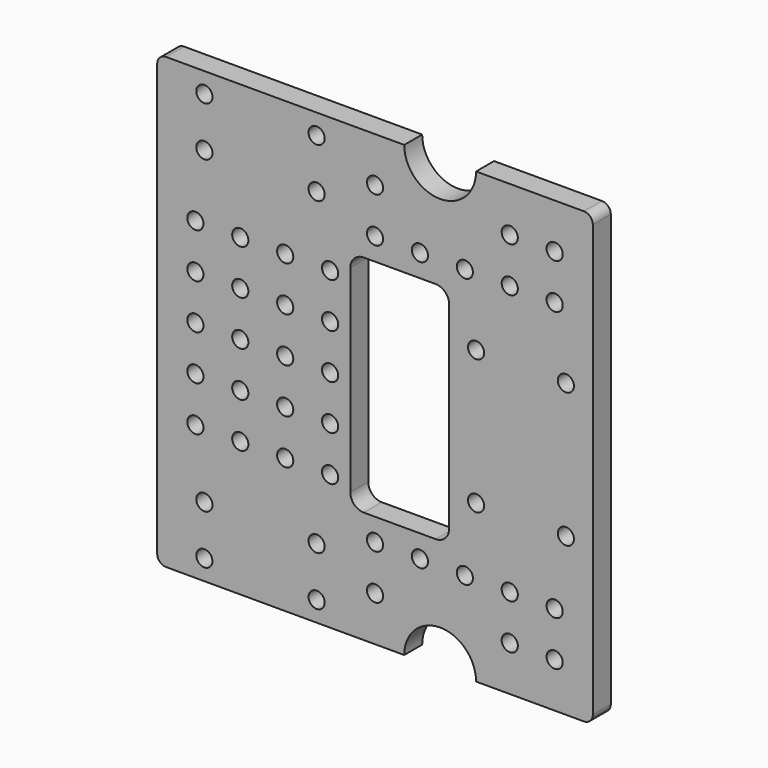
from build123d import *

# Parameters (mm, degrees)
CYLINDER011021_R         = 1.8
CYLINDER011021_DEPTH     = 100
ARRAY016_X_COUNT         = 2
ARRAY016_X_PITCH         = 25
ARRAY016_Y_COUNT         = 2
ARRAY016_Y_PITCH         = 11
ARRAY016_PLACEMENT_ANGLE = 90
ARRAY015_Z_COUNT         = 2
ARRAY015_Z_PITCH         = 80
CYLINDER011026_R         = 1.8
CYLINDER011026_DEPTH     = 10
ARRAY014_X_COUNT         = 2
ARRAY014_X_PITCH         = 30
ARRAY014_Y_COUNT         = 2
ARRAY014_Y_PITCH         = 20
ARRAY014_PITCH_ANGLE     = 90
ARRAY014_PLACEMENT_ANGLE = -90
BOX008_W                 = 22
BOX008_H                 = 10
BOX008_DEPTH             = 50
FILLET006_R              = 3
BOX009_W                 = 16
BOX009_H                 = 200
BOX009_DEPTH             = 50
CYLINDER011028_R         = 8
CYLINDER011028_DEPTH     = 200
SKETCH005_W              = 42.117567
SKETCH005_H              = 23.738708
SKETCH005_W_2            = 40.471139
SKETCH005_H_2            = 27.047569
SKETCH005_W_3            = 29.381024
SKETCH005_H_3            = 46.19655
SKETCH005_W_4            = 20.234924
SKETCH005_H_4            = 18.380661
SKETCH005_W_5            = 22.001269
SKETCH005_H_5            = 17.778789
EXTRUDE003_DEPTH         = 50
CYLINDER011025_R         = 1.8
CYLINDER011025_DEPTH     = 100
ARRAY013_X_COUNT         = 9
ARRAY013_X_PITCH         = 10
ARRAY013_Z_COUNT         = 9
ARRAY013_Z_PITCH         = 10
BOX007_W                 = 97
BOX007_H                 = 5
BOX007_DEPTH             = 100
FILLET005_R              = 2


with BuildPart() as bolt_hole_array_pair002:
    # Cylinder011021 → Cylinder011021 (new body)
    with BuildSketch(Plane.XY.offset(-50)):
        Circle(CYLINDER011021_R)
    extrude(amount=CYLINDER011021_DEPTH)

    # Array016 X: bolt hole array pair002 ×2


with BuildPart() as bolt_hole_array_pair002_1:
    add(bolt_hole_array_pair002.part)
    with Locations(*[(i * ARRAY016_X_PITCH, 0, 0) for i in range(1, ARRAY016_X_COUNT)]):
        add(bolt_hole_array_pair002.part)

    # Array016 Y: bolt hole array pair002 ×2


with BuildPart() as bolt_hole_array_pair002_2:
    add(bolt_hole_array_pair002_1.part)
    with Locations(*[(0, i * ARRAY016_Y_PITCH, 0) for i in range(1, ARRAY016_Y_COUNT)]):
        add(bolt_hole_array_pair002_1.part)


with BuildPart() as bolt_hole_array_pair002_3:
    # Array016 placement: moved
    add(bolt_hole_array_pair002_2.part.moved(Location((-12.5, 0, 4.5))).rotate(Axis((-12.5, 0, 4.5), (1, 0, 0)), ARRAY016_PLACEMENT_ANGLE))

    # Array015 Z: bolt hole array pair002 ×2


with BuildPart() as bolt_hole_array_pair002_4:
    add(bolt_hole_array_pair002_3.part)
    with Locations(*[(0, 0, i * ARRAY015_Z_PITCH) for i in range(1, ARRAY015_Z_COUNT)]):
        add(bolt_hole_array_pair002_3.part)


with BuildPart() as stepper_mount_hole_array002:
    # Cylinder011026 → Cylinder011026 (new body)
    with BuildSketch(Plane.XY):
        Circle(CYLINDER011026_R)
    extrude(amount=CYLINDER011026_DEPTH)

    # Array014 X: stepper mount hole array002 ×2


with BuildPart() as stepper_mount_hole_array002_1:
    add(stepper_mount_hole_array002.part)
    with Locations(*[(i * ARRAY014_X_PITCH, 0, 0) for i in range(1, ARRAY014_X_COUNT)]):
        add(stepper_mount_hole_array002.part)

    # Array014 Y: stepper mount hole array002 ×2


with BuildPart() as stepper_mount_hole_array002_2:
    add(stepper_mount_hole_array002_1.part)
    with Locations(*[(0, i * ARRAY014_Y_PITCH, 0) for i in range(1, ARRAY014_Y_COUNT)]):
        add(stepper_mount_hole_array002_1.part)


with BuildPart() as stepper_mount_hole_array002_3:
    # Array014 pitch: moved
    add(stepper_mount_hole_array002_2.part.rotate(Axis((0, 0, 0), (0, 1, 0)), ARRAY014_PITCH_ANGLE))


with BuildPart() as stepper_mount_hole_array002_4:
    # Array014 placement: moved
    add(stepper_mount_hole_array002_3.part.moved(Location((48, -31, 65))).rotate(Axis((48, -31, 65), (0, 0, 1)), ARRAY014_PLACEMENT_ANGLE))


with BuildPart() as belt_hole_fillet002:
    # Box008 → Box008 (new body)
    with BuildSketch(Plane(origin=(20, -40, 25), x_dir=(1, 0, 0), z_dir=(0, 0, 1))):
        with Locations((11, 5)):
            Rectangle(BOX008_W, BOX008_H)
    extrude(amount=BOX008_DEPTH)

    # Fillet006
    fillet006_edges = [belt_hole_fillet002.edges().sort_by_distance(p)[0] for p in [
        (20, -35, 75),
        (20, -35, 25),
        (42, -35, 75),
        (42, -35, 25),
    ]]
    fillet(fillet006_edges, radius=FILLET006_R)


with BuildPart() as shaft_extension_cube002:
    # Box009 → Box009 (new body)
    with BuildSketch(Plane(origin=(-8, -200, -50), x_dir=(1, 0, 0), z_dir=(0, 0, 1))):
        with Locations((8, 100)):
            Rectangle(BOX009_W, BOX009_H)
    extrude(amount=BOX009_DEPTH)


with BuildPart() as shaft_16mm_hole002:
    # Cylinder011028 → Cylinder011028 (new body)
    with BuildSketch(Plane.XZ):
        Circle(CYLINDER011028_R)
    extrude(amount=CYLINDER011028_DEPTH)

    # Fusion010: union shaft extension cube002
    add(shaft_extension_cube002.part)


with BuildPart() as shaft_16mm_hole002_1:
    # Fusion010 placement: moved
    add(shaft_16mm_hole002.part.moved(Location((40, -19, 0))))


with BuildPart() as part_mirroring004:
    # Part__Mirroring004: instance of shaft 16mm hole002
    add(shaft_16mm_hole002_1.part.mirror(Plane(origin=(0, 0, 50), x_dir=(0, 1, 0), z_dir=(0, 0, 1))))


with BuildPart() as general_holes_extrude002:
    # Sketch005 → Extrude003 (new body, symmetric)
    with BuildSketch(Plane.XZ):
        with Locations((-1.795196, 11.674214)):
            Rectangle(SKETCH005_W, SKETCH005_H)
        with Locations((-0.985158, 89.151065)):
            Rectangle(SKETCH005_W_2, SKETCH005_H_2)
        with Locations((57.017252, 49.302802)):
            Rectangle(SKETCH005_W_3, SKETCH005_H_3)
        with Locations((39.542156, 93.364433)):
            Rectangle(SKETCH005_W_4, SKETCH005_H_4)
        with Locations((39.547934, 5.882593)):
            Rectangle(SKETCH005_W_5, SKETCH005_H_5)
    extrude(amount=EXTRUDE003_DEPTH, both=True)


with BuildPart() as hole_fusion002:
    # Cylinder011025 → Cylinder011025 (new body)
    with BuildSketch(Plane.XZ.offset(-50)):
        Circle(CYLINDER011025_R)
    extrude(amount=CYLINDER011025_DEPTH)

    # Array013 X: hole fusion002 ×9


with BuildPart() as hole_fusion002_1:
    add(hole_fusion002.part)
    with Locations(*[(i * ARRAY013_X_PITCH, 0, 0) for i in range(1, ARRAY013_X_COUNT)]):
        add(hole_fusion002.part)

    # Array013 Z: hole fusion002 ×9


with BuildPart() as hole_fusion002_2:
    add(hole_fusion002_1.part)
    with Locations(*[(0, 0, i * ARRAY013_Z_PITCH) for i in range(1, ARRAY013_Z_COUNT)]):
        add(hole_fusion002_1.part)


with BuildPart() as hole_fusion002_3:
    # Array013 placement: moved
    add(hole_fusion002_2.part.moved(Location((-14.5, 0, 10))))

    # Cut023015009015: cut general holes extrude002
    add(general_holes_extrude002.part, mode=Mode.SUBTRACT)

    # Fusion011: union bolt hole array pair002, stepper mount hole array002, belt hole fillet002, Part__Mirroring004, shaft 16mm hole002
    add(bolt_hole_array_pair002_4.part)
    add(stepper_mount_hole_array002_4.part)
    add(belt_hole_fillet002.part)
    add(part_mirroring004.part)
    add(shaft_16mm_hole002_1.part)


with BuildPart() as side_plate_cut002:
    # Box007 → Box007 (new body)
    with BuildSketch(Plane(origin=(-23, -36, 0), x_dir=(1, 0, 0), z_dir=(0, 0, 1))):
        with Locations((48.5, 2.5)):
            Rectangle(BOX007_W, BOX007_H)
    extrude(amount=BOX007_DEPTH)

    # Fillet005
    fillet005_edges = [side_plate_cut002.edges().sort_by_distance(p)[0] for p in [
        (-23, -33.5, 100),
        (-23, -33.5, 0),
        (74, -33.5, 100),
        (74, -33.5, 0),
    ]]
    fillet(fillet005_edges, radius=FILLET005_R)

    # Cut023015009019: cut hole fusion002
    add(hole_fusion002_3.part, mode=Mode.SUBTRACT)


solid = side_plate_cut002.part
